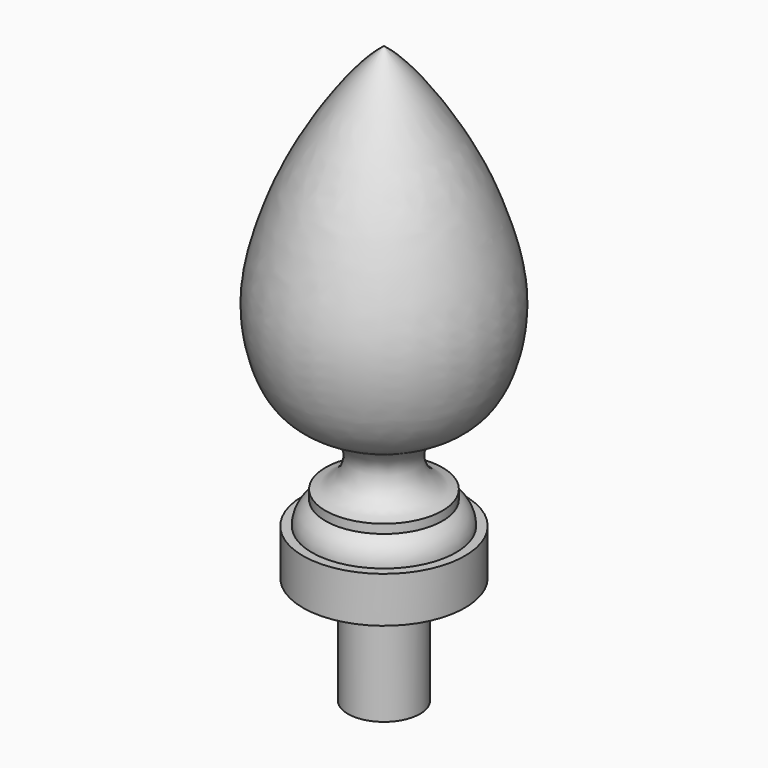
from build123d import *

# Parameters (mm, degrees)
F2_R     = 6.35
F3_DEPTH = 19.05


with BuildPart() as f1:
    # F0 (on Front) → F1 (revolve)
    with BuildSketch(Plane.XZ):
        with BuildLine():
            Line((-14.2875, 0), (0, 0))
            Line((0, 0), (0, 82.55))
            add(Edge.make_bspline(
                [(-10.3173267766, 13.7772673566), (-9.7542577342, 13.9189949448), (-8.7837192186, 14.0342974796), (-6.7366964189, 15.6271610186), (-5.7831889647, 17.2510746377), (-5.3274903025, 19.561240103), (-6.3597783763, 21.6465588891), (-7.8655763238, 23.5184731931), (-11.4427663168, 24.8942017837), (-15.9643108763, 28.067693587), (-19.0623897098, 34.6572420873), (-20.4563878975, 44.6646724068), (-17.1595032199, 56.3004961078), (-12.3601997394, 67.5904391591), (-3.8765890058, 79.7095969319), (0, 82.55)],
                knots=[0, 0, 0, 0, 0.0415999938, 0.0933658969, 0.139413565, 0.1887556661, 0.2383289481, 0.28858266, 0.352549029, 0.4293674027, 0.5174702969, 0.6222470639, 0.7355863968, 0.8559952045, 1, 1, 1, 1], degree=3))
            Line((-10.3173267766, 13.7772673566), (-10.3173267766, 12.1897673566))
            ThreePointArc((-10.3173267766, 12.1897673566), (-12.0615351158, 10.4464615054), (-12.7, 8.0645))
            Line((-12.7, 8.0645), (-14.2875, 8.0645))
            Line((-14.2875, 8.0645), (-14.2875, 0))
        make_face()
    revolve(axis=Axis((0, 0, 41.275), (0, 0, -1)))

    # F2 (on face) → F3 (join)
    with BuildSketch(Plane(origin=(0, 0, 0), x_dir=(1, 0, 0), z_dir=(0, 0, -1))):
        Circle(F2_R)
    extrude(amount=F3_DEPTH)


solid = f1.part
